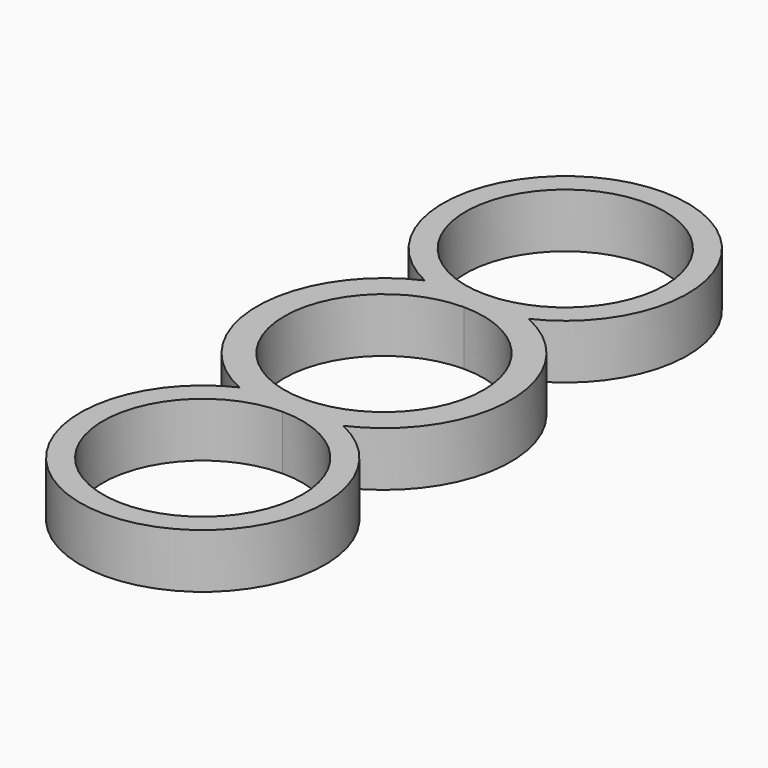
from build123d import *

# Parameters (mm, degrees)
F1_DEPTH = 6


with BuildPart() as f1:
    # F0 (on Top) → F1 (new body)
    with BuildSketch(Plane.XY):
        with BuildLine():
            ThreePointArc((5.727074, -12.775), (14, 0), (5.727074, 12.775))
            ThreePointArc((5.727074, 12.775), (0, 38.5), (-5.727074, 12.775))
            ThreePointArc((-5.727074, 12.775), (-14, 0), (-5.727074, -12.775))
            ThreePointArc((-5.727074, -12.775), (0, -38.5), (5.727074, -12.775))
        make_face()
        with BuildLine():
            ThreePointArc((11, -25), (-7.778175, -32.778175), (0, -14))
            ThreePointArc((0, -14), (7.778175, -17.221825), (11, -25))
        make_face(mode=Mode.SUBTRACT)
        with BuildLine():
            ThreePointArc((11, 0), (7.778175, -7.778175), (0, -11))
            ThreePointArc((0, -11), (-11, 0), (0, 11))
            ThreePointArc((0, 11), (7.778175, 7.778175), (11, 0))
        make_face(mode=Mode.SUBTRACT)
        with BuildLine():
            ThreePointArc((11, 25), (7.778175, 17.221825), (0, 14))
            ThreePointArc((0, 14), (-7.778175, 32.778175), (11, 25))
        make_face(mode=Mode.SUBTRACT)
    extrude(amount=F1_DEPTH)


solid = f1.part
